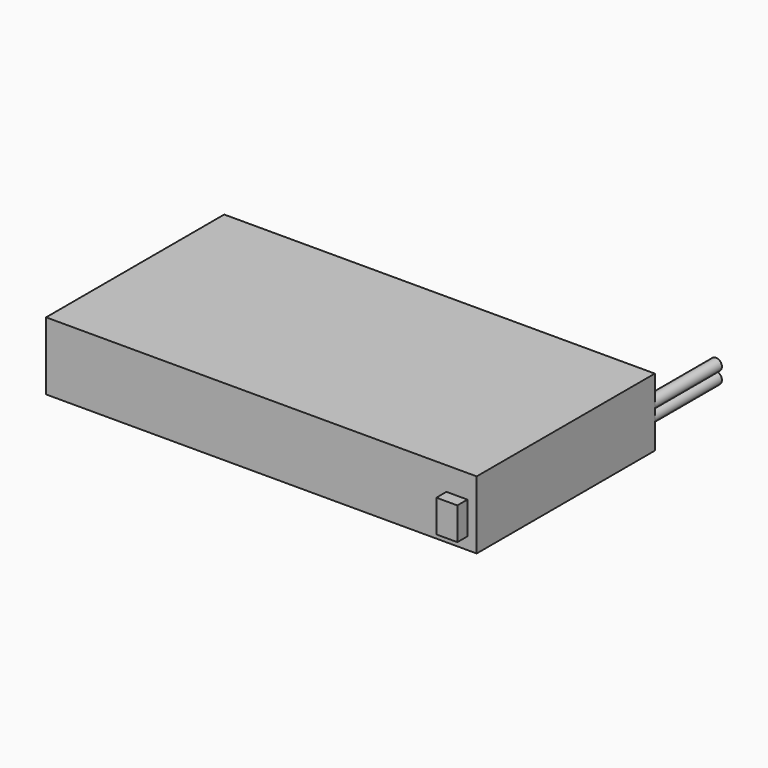
from build123d import *

# Parameters (mm, degrees)
F0_W     = 130.175
F0_H     = 67.31
F1_DEPTH = 20.5232
F2_W     = 6.35
F2_H     = 9.779
F3_DEPTH = 3.81
F4_R     = 1.778
F5_DEPTH = 25.4


with BuildPart() as f1:
    # F0 (on Top) → F1 (new body)
    with BuildSketch(Plane.XY):
        with Locations((65.0875, 33.655)):
            Rectangle(F0_W, F0_H)
    extrude(amount=F1_DEPTH)

    # F2 (on face) → F3 (join)
    with BuildSketch(Plane.XZ):
        with Locations((124.206, 8.5471)):
            Rectangle(F2_W, F2_H)
    extrude(amount=F3_DEPTH)

    # F4 (on face) → F5 (join)
    with BuildSketch(Plane(origin=(0, 67.31, 0), x_dir=(-1, 0, 0), z_dir=(0, 1, 0))):
        with Locations((-128.3716, 8.4582)):
            Circle(F4_R)
        with Locations((-128.3716, 12.0396)):
            Circle(F4_R)
    extrude(amount=F5_DEPTH)


solid = f1.part
